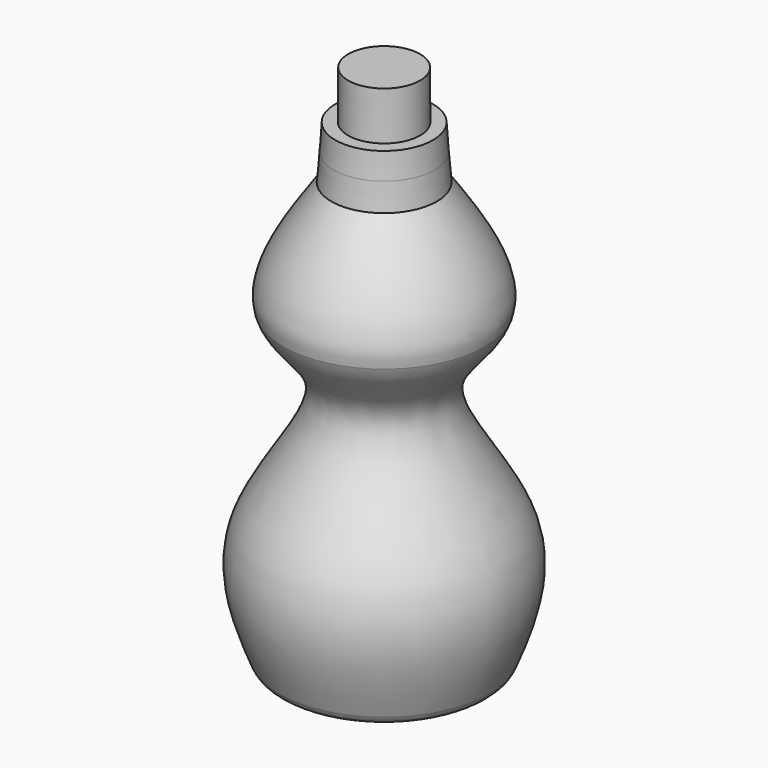
from build123d import *

# Parameters (mm, degrees)
F0_R  = 16
F3_R  = 16
F2_R  = 22.5
F6_R  = 21.75
F8_R  = 16.1
F10_R = 16
F21_R = 7
F22_R = 23.5
F23_R = 22.5


with BuildPart() as f4:
    # F0 (on Top) → F4 section 0
    with BuildSketch(Plane.XY):
        Circle(F0_R)
    # F3 (on offset) → F4 section 1
    with BuildSketch(Plane.XY.offset(15.5)):
        Circle(F3_R)
    loft()

    # F2 (on offset) → F7 section 0
    with BuildSketch(Plane.XY.offset(15.5)):
        Circle(F2_R)
    # F6 (on offset) → F7 section 1
    with BuildSketch(Plane.XY.offset(27)):
        Circle(F6_R)
    loft()

    # F8 (on face) → F11 section 0
    with BuildSketch(Plane.XY.offset(27)):
        Circle(F8_R)
    # F10 (on offset) → F11 section 1
    with BuildSketch(Plane.XY.offset(48.5)):
        Circle(F10_R)
    loft()

    # F20: sweep along a path in F16
    with BuildLine(Plane.XY.offset(-186.5)) as f20_path:
        CenterArc((0, 0), 45, 0, 360)
    # F19 (on Right) → F20 (sweep)
    with BuildSketch(Plane.YZ):
        with BuildLine():
            add(Edge.make_bspline(
                [(-23.5, 3.5), (-36.2275912486, -14.7854639769), (-48.9551824971, -33.0709279537), (-45, -46.5)],
                knots=[0, 0, 0, 0, 0.2584292307, 0.2584292307, 0.2584292307, 0.2584292307], degree=3))
            Line((-45, -46.5), (0, -46.5))
            Line((0, -46.5), (0, 3.5))
            Line((0, 3.5), (-23.5, 3.5))
        make_face()
        with BuildLine():
            Line((0, -46.5), (-45, -46.5))
            add(Edge.make_bspline(
                [(-45, -46.5), (-41.8623538668, -57.1532823728), (-9.9225968185, -74.947210298), (-67.6267764195, -131.4854286233), (-52.4119770329, -168.4785756505), (-45, -186.5)],
                knots=[0.2584292307, 0.2584292307, 0.2584292307, 0.2584292307, 0.4634411301, 0.7386122604, 1, 1, 1, 1], degree=3))
            Line((-45, -186.5), (0, -186.5))
            Line((0, -186.5), (0, -46.5))
        make_face()
    sweep(path=f20_path.line)

    # F21
    f21_edges = [f4.edges().sort_by_distance(p)[0] for p in [
        (-45, 0, -186.5),
    ]]
    fillet(f21_edges, radius=F21_R)

    # F22 (on offset) → F24 section 0
    with BuildSketch(Plane.XY.offset(3.5)):
        Circle(F22_R)
    # F23 (on offset) → F24 section 1
    with BuildSketch(Plane.XY.offset(15.5)):
        Circle(F23_R)
    loft()


solid = f4.part
